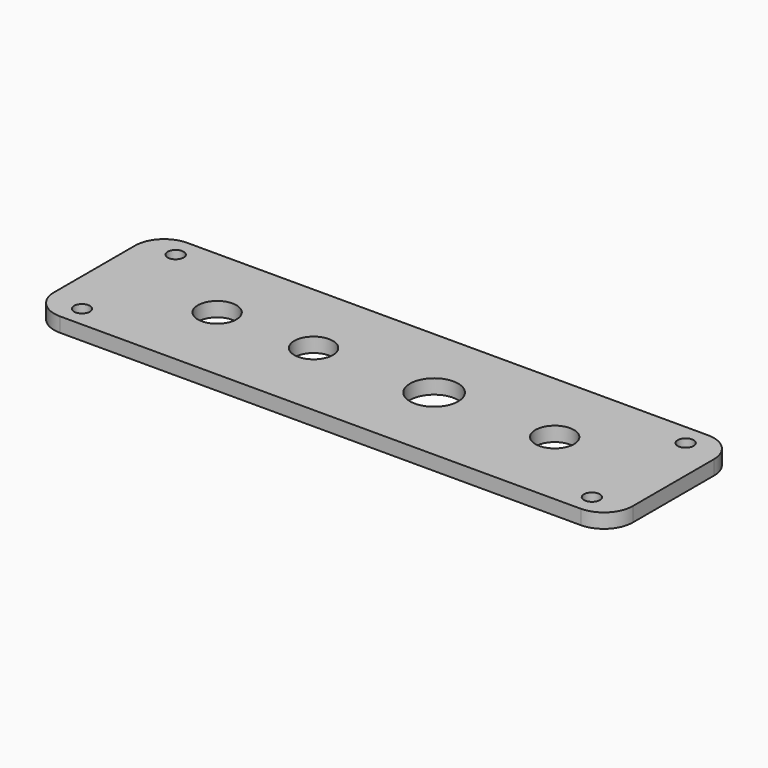
from build123d import *

# Parameters (mm, degrees)
SKETCH_W        = 120
SKETCH_H        = 33
PAD_DEPTH       = 3
SKETCH195_R     = 4
SKETCH195_R_2   = 5
POCKET_DEPTH    = 5
SKETCH196_R     = 1.65
POCKET137_DEPTH = 5
FILLET_R        = 6


with BuildPart() as part:
    # Sketch → Pad (new body)
    with BuildSketch(Plane.XY):
        with Locations((60, -56.515431)):
            Rectangle(SKETCH_W, SKETCH_H)
    extrude(amount=PAD_DEPTH)

    # Sketch195 (on Face6 of Pad) → Pocket (cut)
    with BuildSketch(Plane.XY.offset(3)):
        with Locations((25.000934, -56.019999)):
            Circle(SKETCH195_R)
        with Locations((45.000934, -56.019999)):
            Circle(SKETCH195_R)
        with Locations((70.000934, -56.019999)):
            Circle(SKETCH195_R_2)
        with Locations((95.000934, -56.019999)):
            Circle(SKETCH195_R)
    extrude(amount=-POCKET_DEPTH, mode=Mode.SUBTRACT)

    # Sketch196 (on Face5 of Pocket) → Pocket137 (cut)
    with BuildSketch(Plane.XY.offset(3)):
        with Locations((7.125, -44.415438)):
            Circle(SKETCH196_R)
        with Locations((112.875, -68.713068)):
            Circle(SKETCH196_R)
        with Locations((112.875, -44.415438)):
            Circle(SKETCH196_R)
        with Locations((7.125, -68.713068)):
            Circle(SKETCH196_R)
    extrude(amount=-POCKET137_DEPTH, mode=Mode.SUBTRACT)

    # Fillet
    fillet_edges = [part.edges().sort_by_distance(p)[0] for p in [
        (0, -73.015431, 1.5),
        (0, -40.015431, 1.5),
        (120, -73.015431, 1.5),
        (120, -40.015431, 1.5),
    ]]
    fillet(fillet_edges, radius=FILLET_R)


with BuildPart() as part_1:
    # Clone placement: moved
    add(part.part.moved(Location((2, 38.015431, -3))))


solid = part_1.part
